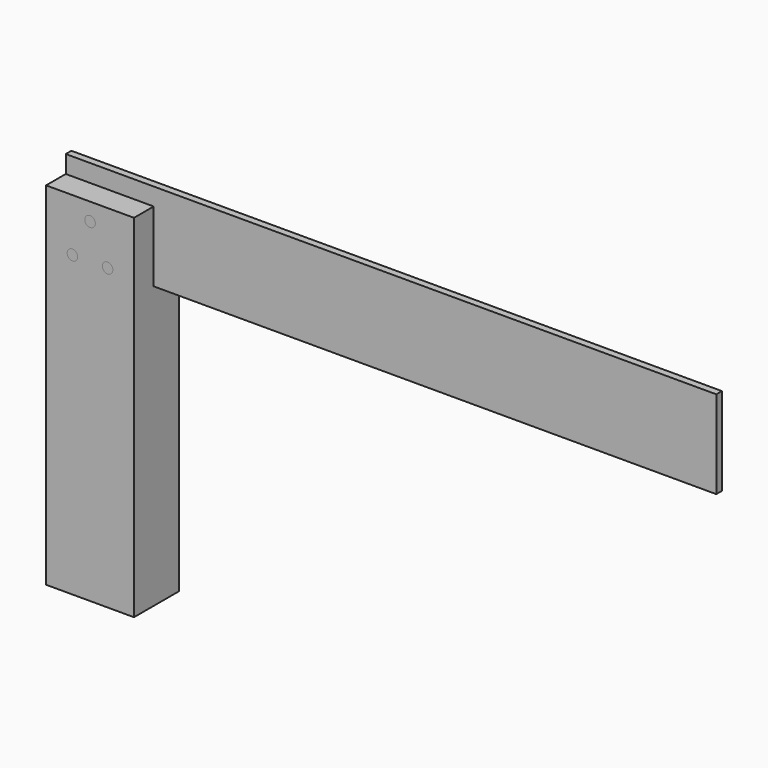
from build123d import *

# Parameters (mm, degrees)
F0_W      = 25
F0_H      = 100
F1_DEPTH  = 16
F2_W      = 2
F2_H      = 20
F3_DEPTH  = 25
F5_DEPTH  = 185
F6_R      = 1.5
F7_DEPTH  = 16
F8_R      = 1.5
F9_DEPTH  = 16
F10_R     = 1.5
F11_DEPTH = 16
F12_R     = 1.5
F13_DEPTH = 16


with BuildPart() as f1:
    # F0 (on Front) → F1 (new body)
    with BuildSketch(Plane.XZ):
        with Locations((-12.5, 50)):
            Rectangle(F0_W, F0_H)
    extrude(amount=F1_DEPTH)

    # F2 (on face) → F3 (cut, through all)
    with BuildSketch(Plane(origin=(-25, 0, 0), x_dir=(0, -1, 0), z_dir=(-1, 0, 0))):
        with Locations((8, 90)):
            Rectangle(F2_W, F2_H)
    extrude(amount=-F3_DEPTH, mode=Mode.SUBTRACT)


with BuildPart() as f5:
    # F4 (on face) → F5 (new body)
    with BuildSketch(Plane(origin=(-25, 0, 0), x_dir=(0, -1, 0), z_dir=(-1, 0, 0))):
        Polygon((7, 100), (7, 80), (9, 80), (9, 100), (9, 105), (7, 105), align=None)
    extrude(amount=-F5_DEPTH)


with BuildPart() as f7_tool:
    # F6 (on face) → F7 (new body, through all)
    with BuildSketch(Plane.XZ.offset(16)):
        with Locations((-7.5, 85)):
            Circle(F6_R)
        with Locations((-12.5, 95)):
            Circle(F6_R)
        with Locations((-17.5, 85)):
            Circle(F6_R)
    extrude(amount=-F7_DEPTH)


with BuildPart() as f1_1:
    add(f1.part)

    # F7: cut by f7_tool
    add(f7_tool.part, mode=Mode.SUBTRACT)


with BuildPart() as f5_1:
    add(f5.part)

    # F7: cut by f7_tool
    add(f7_tool.part, mode=Mode.SUBTRACT)


with BuildPart() as f9:
    # F8 (on face) → F9 (new body, through all)
    with BuildSketch(Plane.XZ.offset(16)):
        with Locations((-12.5, 95)):
            Circle(F8_R)
    extrude(amount=-F9_DEPTH)


with BuildPart() as f11:
    # F10 (on face) → F11 (new body, through all)
    with BuildSketch(Plane.XZ.offset(16)):
        with Locations((-17.5, 85)):
            Circle(F10_R)
    extrude(amount=-F11_DEPTH)


with BuildPart() as f13:
    # F12 (on face) → F13 (new body, through all)
    with BuildSketch(Plane.XZ.offset(16)):
        with Locations((-7.5, 85)):
            Circle(F12_R)
    extrude(amount=-F13_DEPTH)


solid = Compound([f1_1.part, f5_1.part, f9.part, f11.part, f13.part])
